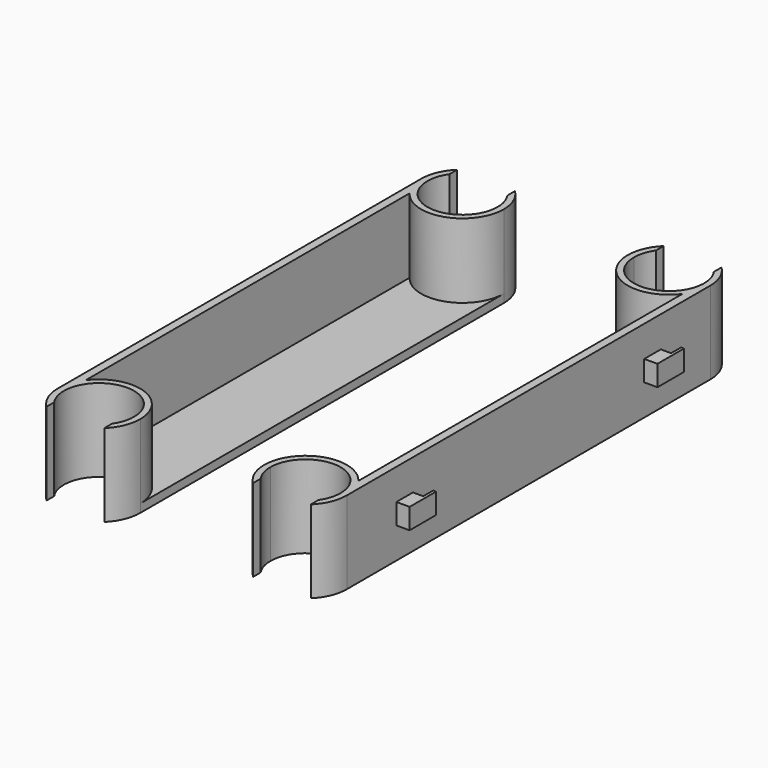
from build123d import *

# Parameters (mm, degrees)
F1_DEPTH = 20
F2_DEPTH = 2
F3_W     = 5
F3_H     = 5
F3_W_2   = 3
F4_DEPTH = 3.2
F5_DEPTH = 2.5


with BuildPart() as f1:
    # F0 (on Top) → F1 (new body)
    with BuildSketch(Plane.XY):
        with BuildLine():
            ThreePointArc((-10, 0), (-9.486833, 3.162278), (-8, 6))
            Line((-8, 6), (-8, 104))
            ThreePointArc((-8, 104), (-9.486833, 106.837722), (-10, 110))
            Line((-10, 110), (-10, 0))
        make_face()
        with BuildLine():
            ThreePointArc((-8, 104), (3.162278, 100.513167), (10, 110))
            ThreePointArc((10, 110), (9.219544, 113.872983), (7, 117.141428))
            Line((7, 117.141428), (7, 114.821825))
            ThreePointArc((7, 114.821825), (8.116342, 112.524876), (8.5, 110))
            ThreePointArc((8.5, 110), (-2.524876, 101.883658), (-7, 114.821825))
            Line((-7, 114.821825), (-7, 117.141428))
            ThreePointArc((-7, 117.141428), (-9.219544, 113.872983), (-10, 110))
            ThreePointArc((-10, 110), (-9.486833, 106.837722), (-8, 104))
        make_face()
        with BuildLine():
            ThreePointArc((7, -7.141428), (9.219544, -3.872983), (10, 0))
            ThreePointArc((10, 0), (3.162278, 9.486833), (-8, 6))
            ThreePointArc((-8, 6), (-9.486833, 3.162278), (-10, 0))
            ThreePointArc((-10, 0), (-9.219544, -3.872983), (-7, -7.141428))
            Line((-7, -7.141428), (-7, -4.821825))
            ThreePointArc((-7, -4.821825), (-2.524876, 8.116342), (8.5, 0))
            ThreePointArc((8.5, 0), (8.116342, -2.524876), (7, -4.821825))
            Line((7, -4.821825), (7, -7.141428))
        make_face()
    extrude(amount=F1_DEPTH)

    # F0 (on Top) → F2 (join)
    with BuildSketch(Plane.XY):
        with BuildLine():
            ThreePointArc((-8, 6), (3.162278, 9.486833), (10, 0))
            Line((10, 0), (10, 110))
            ThreePointArc((10, 110), (3.162278, 100.513167), (-8, 104))
            Line((-8, 104), (-8, 6))
        make_face()
    extrude(amount=F2_DEPTH)

    # F3 (on face) → F4 (join)
    with BuildSketch(Plane(origin=(-10, 0, 0), x_dir=(0, -1, 0), z_dir=(-1, 0, 0))):
        with Locations((-92.5, 10)):
            Rectangle(F3_W, F3_H)
        with Locations((-17.5, 10)):
            Rectangle(F3_W, F3_H)
        with Locations((-96.5, 10)):
            Rectangle(F3_W_2, F3_H)
        with Locations((-21.5, 10)):
            Rectangle(F3_W_2, F3_H)
    extrude(amount=F4_DEPTH)

    # F3 (on face) → F5 (cut)
    with BuildSketch(Plane(origin=(-10, 0, 0), x_dir=(0, -1, 0), z_dir=(-1, 0, 0))):
        with Locations((-96.5, 10)):
            Rectangle(F3_W_2, F3_H)
        with Locations((-21.5, 10)):
            Rectangle(F3_W_2, F3_H)
    extrude(amount=F5_DEPTH, mode=Mode.SUBTRACT)


with BuildPart() as f7_1:
    # F7: instance of F1
    add(f1.part.mirror(Plane.YZ.offset(25)))


solid = Compound([f1.part, f7_1.part])
